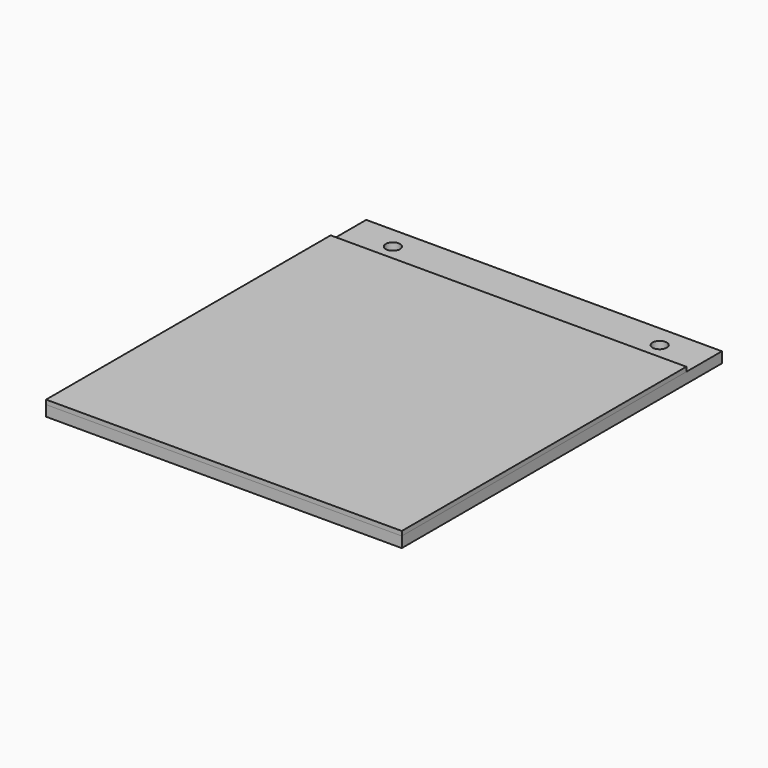
from build123d import *

# Parameters (mm, degrees)
F0_W     = 400
F0_H     = 400
F1_DEPTH = 5
F2_W     = 400
F2_H     = 50
F2_R     = 8
F2_H_2   = 400
F3_DEPTH = 12


with BuildPart() as f1:
    # F0 (on Top) → F1 (new body)
    with BuildSketch(Plane.XY):
        with Locations((-200, 200)):
            Rectangle(F0_W, F0_H)
    extrude(amount=F1_DEPTH)


with BuildPart() as f3:
    # F2 (on face) → F3 (new body)
    with BuildSketch(Plane(origin=(0, 0, 0), x_dir=(1, 0, 0), z_dir=(0, 0, -1))):
        with Locations((-200, -425)):
            Rectangle(F2_W, F2_H)
        with Locations((-350, -425)):
            Circle(F2_R, mode=Mode.SUBTRACT)
        with Locations((-50, -425)):
            Circle(F2_R, mode=Mode.SUBTRACT)
        with Locations((-200, -200)):
            Rectangle(F2_W, F2_H_2)
    extrude(amount=F3_DEPTH)


solid = Compound([f1.part, f3.part])
